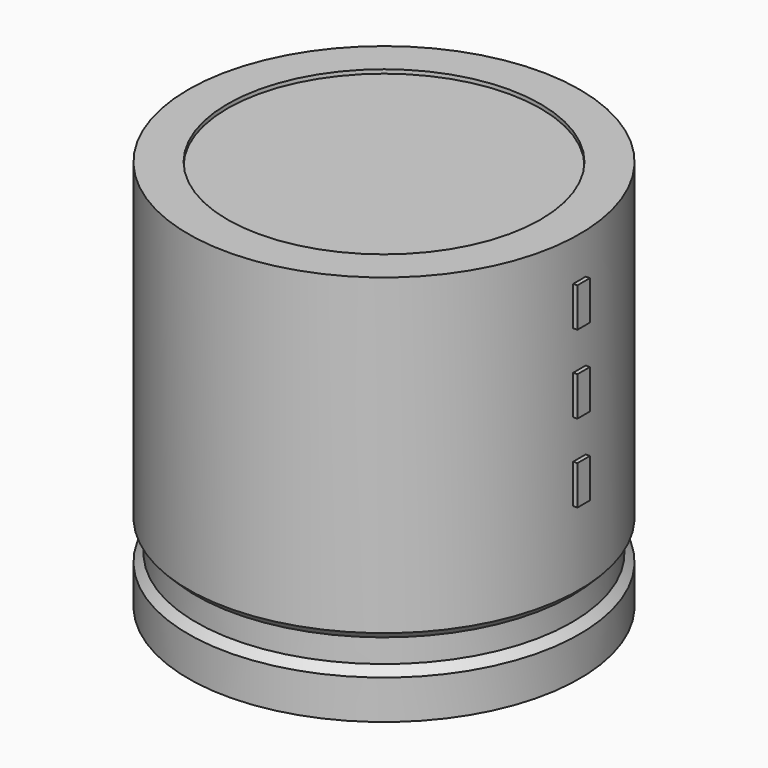
from build123d import *

# Parameters (mm, degrees)
SKETCH002_W  = 11.5
SKETCH002_H  = 24.5
SKETCH003_R  = 0.85
PAD_DEPTH    = 5.5
SKETCH004_W  = 1
SKETCH004_H  = 2.5
PAD001_DEPTH = 12.75


with BuildPart() as revolution:
    # Sketch → Revolution (revolve)
    with BuildSketch(Plane.XZ):
        Polygon((-7.5, 0.1), (-7.5, 2.6), (-7, 3.1), (-7, 4.6), (-7.5, 5.1), (-7.5, 25.1), (-5, 25.1), (-5, 0.1), align=None)
    revolve(axis=Axis((5, 0, 7.548619), (0, 0, -1)))


with BuildPart() as revolution001:
    # Sketch002 → Revolution001 (revolve)
    with BuildSketch(Plane.XZ):
        with Locations((-0.75, 12.6)):
            Rectangle(SKETCH002_W, SKETCH002_H)
    revolve(axis=Axis((5, 0, 4.680116), (0, 0, -1)))


with BuildPart() as pad:
    # Sketch003 → Pad (new body)
    with BuildSketch(Plane.XY.offset(2.5)):
        Circle(SKETCH003_R)
        with Locations((10, 0)):
            Circle(SKETCH003_R)
    extrude(amount=-PAD_DEPTH)


with BuildPart() as pad001:
    # Sketch004 → Pad001 (new body)
    with BuildSketch(Plane.YZ.offset(5)):
        with Locations((0, 11.25)):
            Rectangle(SKETCH004_W, SKETCH004_H)
        with Locations((0, 16.25)):
            Rectangle(SKETCH004_W, SKETCH004_H)
        with Locations((0, 21.25)):
            Rectangle(SKETCH004_W, SKETCH004_H)
    extrude(amount=PAD001_DEPTH)


solid = Compound([revolution.part, revolution001.part, pad.part, pad001.part])
